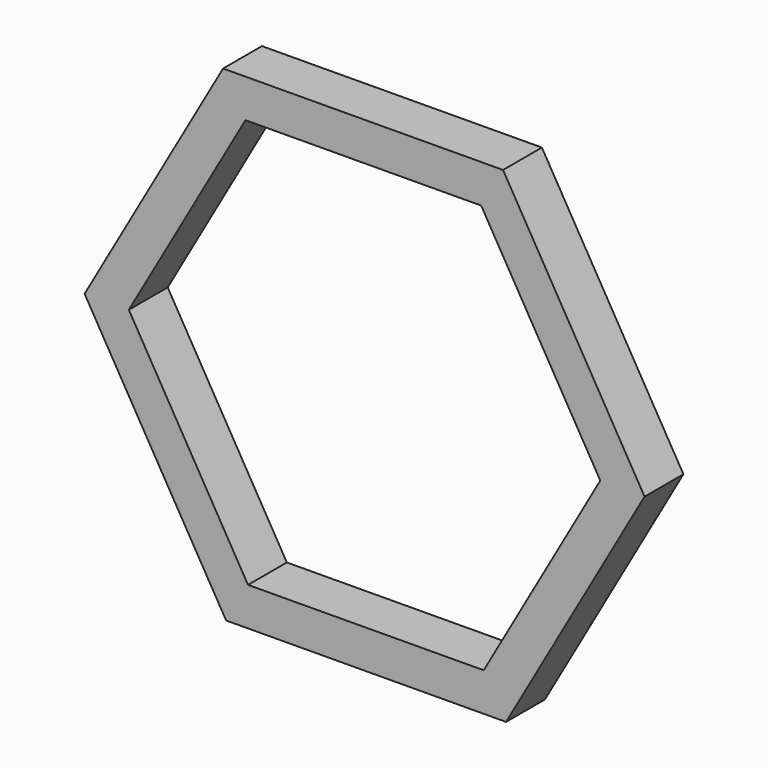
from build123d import *

# Parameters (mm, degrees)
F1_DEPTH = 2


with BuildPart() as f1:
    # F0 (on Front) → F1 (new body)
    with BuildSketch(Plane.XZ):
        Polygon((11.531102, 0.072246), (5.702984, 10.02235), (-5.828118, 9.950104), (-11.531102, -0.072246), (-5.702984, -10.02235), (5.828118, -9.950104), align=None)
        Polygon((-4.906594, 8.376823), (4.801245, 8.437647), (9.707839, 0.060823), (4.906594, -8.376823), (-4.801245, -8.437647), (-9.707839, -0.060823), align=None, mode=Mode.SUBTRACT)
    extrude(amount=F1_DEPTH)


with BuildPart() as f1_1:
    # F2: moved
    add(f1.part.moved(Location((0, 0, 11))))


solid = f1_1.part
